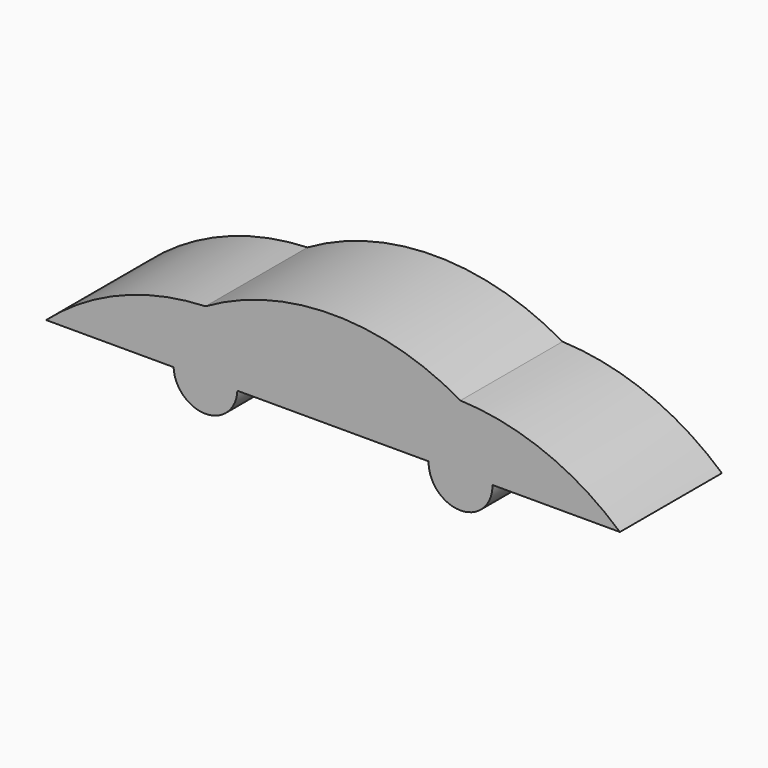
from build123d import *

# Parameters (mm, degrees)
F1_DEPTH = 50.8


with BuildPart() as f1:
    # F0 (on Front) → F1 (new body)
    with BuildSketch(Plane.XZ):
        with BuildLine():
            ThreePointArc((-7.481652, 37.285154), (-41.440481, 30.054075), (-70.981652, 11.811))
            Line((-70.981652, 11.811), (-20.181652, 11.811))
            ThreePointArc((-20.181652, 11.811), (-7.481652, 24.455001), (5.218348, 11.811))
            Line((5.218348, 11.811), (81.418348, 11.811))
            ThreePointArc((81.418348, 11.811), (94.118348, 24.369807), (106.818348, 11.811))
            Line((106.818348, 11.811), (157.618348, 11.811))
            ThreePointArc((157.618348, 11.811), (128.077177, 30.054075), (94.118348, 37.285154))
            ThreePointArc((94.118348, 37.285154), (43.318348, 50.896973), (-7.481652, 37.285154))
        make_face()
        with BuildLine():
            ThreePointArc((5.218348, 11.811), (-7.481652, 24.455001), (-20.181652, 11.811))
            ThreePointArc((-20.181652, 11.811), (-7.481652, -0.420556), (5.218348, 11.811))
        make_face()
        with BuildLine():
            ThreePointArc((106.818348, 11.811), (94.118348, 24.369807), (81.418348, 11.811))
            ThreePointArc((81.418348, 11.811), (94.118348, -1.27557), (106.818348, 11.811))
        make_face()
    extrude(amount=F1_DEPTH)


solid = f1.part
